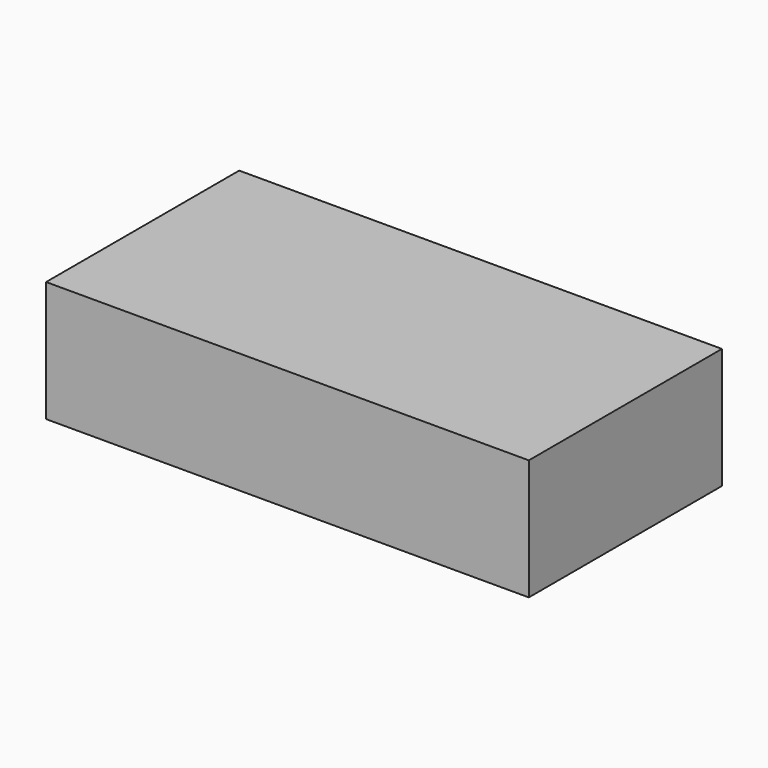
from build123d import *

# Parameters (mm, degrees)
SKETCH_W      = 40
SKETCH_H      = 20
EXTRUDE_DEPTH = 10


with BuildPart() as part:
    # Sketch → Extrude (new body)
    with BuildSketch(Plane.XY):
        with Locations((20, 10)):
            Rectangle(SKETCH_W, SKETCH_H)
    extrude(amount=EXTRUDE_DEPTH)


solid = part.part
